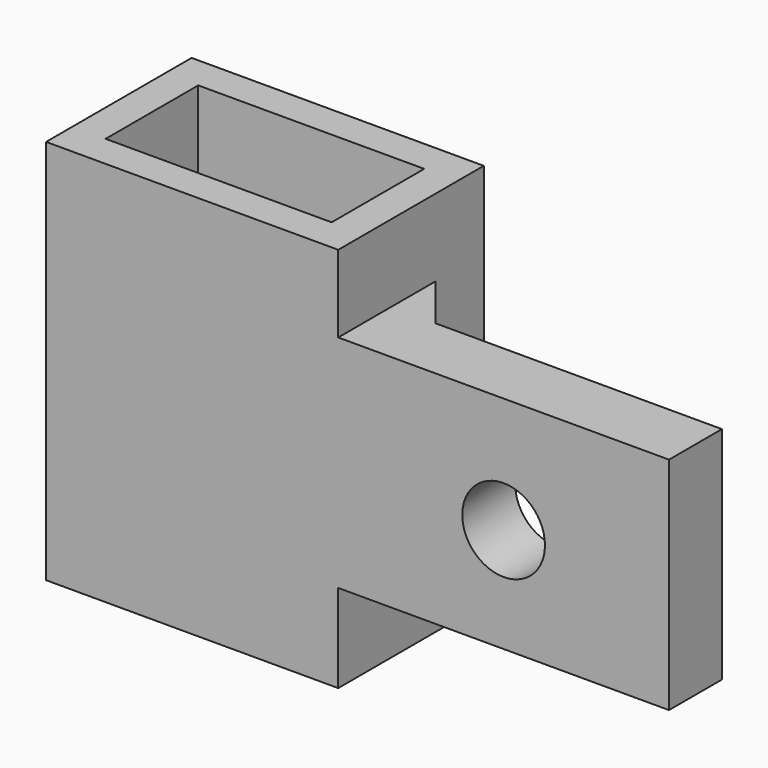
from build123d import *

# Parameters (mm, degrees)
F0_W      = 26.5
F0_H      = 35
F1_DEPTH  = 16.5
F2_W      = 20.5
F2_H      = 10.5
F3_DEPTH  = 35
F4_W      = 6
F4_H      = 20
F5_DEPTH  = 30
F7_DEPTH  = 20
F8_R      = 3.75
F9_DEPTH  = 25
F10_W     = 3.944425
F10_H     = 8.5
F11_DEPTH = 25
F12_R     = 2.7
F12_R_2   = 1.65
F13_DEPTH = 2


with BuildPart() as f1:
    # F0 (on Front) → F1 (new body)
    with BuildSketch(Plane.XZ):
        Rectangle(F0_W, F0_H)
    extrude(amount=F1_DEPTH)

    # F2 (on face) → F3 (cut)
    with BuildSketch(Plane.XY.offset(17.5)):
        with Locations((0, -8.25)):
            Rectangle(F2_W, F2_H)
    extrude(amount=-F3_DEPTH, mode=Mode.SUBTRACT)

    # F4 (on face) → F5 (join)
    with BuildSketch(Plane.YZ.offset(13.25)):
        with Locations((-13.5, 0.5)):
            Rectangle(F4_W, F4_H)
    extrude(amount=F5_DEPTH)

    # F6 (on face) → F7 (join)
    with BuildSketch(Plane(origin=(0, 0, -9.5), x_dir=(1, 0, 0), z_dir=(0, 0, -1))):
        Polygon((13.25, 5.5), (17.25, 10.5), (13.25, 10.5), align=None)
    extrude(amount=-F7_DEPTH)

    # F8 (on face) → F9 (cut)
    with BuildSketch(Plane.XZ.offset(16.5)):
        with Locations((28.25, 0)):
            Circle(F8_R)
    extrude(amount=-F9_DEPTH, mode=Mode.SUBTRACT)

    # F10 (on face) → F11 (cut)
    with BuildSketch(Plane(origin=(0, -10.5, 0), x_dir=(-1, 0, 0), z_dir=(0, 1, 0))):
        with Locations((-15.277787, 0.005)):
            Rectangle(F10_W, F10_H)
    extrude(amount=F11_DEPTH, mode=Mode.SUBTRACT)

    # F12 (on face) → F13 (join)
    with BuildSketch(Plane(origin=(0, 0, 0), x_dir=(-1, 0, 0), z_dir=(0, 1, 0))):
        Circle(F12_R)
        Circle(F12_R_2, mode=Mode.SUBTRACT)
        with Locations((0, 9.5)):
            Circle(F12_R)
        with Locations((0, 9.5)):
            Circle(F12_R_2, mode=Mode.SUBTRACT)
        with Locations((0, -11)):
            Circle(F12_R)
        with Locations((0, -11)):
            Circle(F12_R_2, mode=Mode.SUBTRACT)
    extrude(amount=F13_DEPTH)


solid = f1.part
